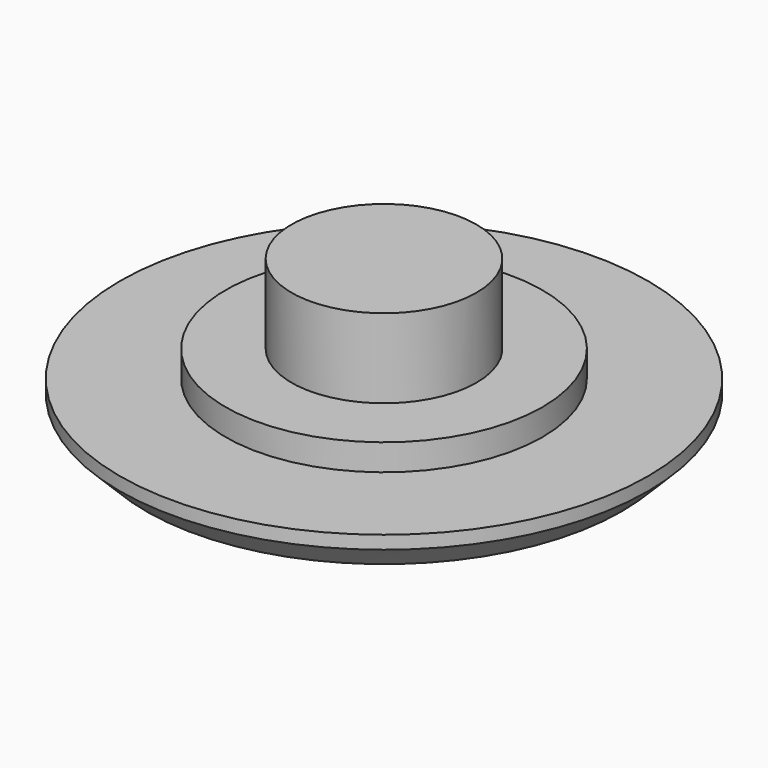
from build123d import *

# Parameters (mm, degrees)
F0_R     = 10
F0_R_2   = 6
F1_DEPTH = 1.5
F0_R_3   = 3.5
F2_DEPTH = 2.5
F3_DEPTH = 5.5
F4_SIZE  = 1


with BuildPart() as f1:
    # F0 (on Top) → F1 (new body)
    with BuildSketch(Plane.XY):
        Circle(F0_R)
        Circle(F0_R_2, mode=Mode.SUBTRACT)
    extrude(amount=F1_DEPTH)

    # F0 (on Top) → F2 (join)
    with BuildSketch(Plane.XY):
        Circle(F0_R_2)
        Circle(F0_R_3, mode=Mode.SUBTRACT)
    extrude(amount=F2_DEPTH)

    # F0 (on Top) → F3 (join)
    with BuildSketch(Plane.XY):
        Circle(F0_R_3)
    extrude(amount=F3_DEPTH)

    # F4
    f4_edges = [f1.edges().sort_by_distance(p)[0] for p in [
        (-10, 0, 0),
    ]]
    chamfer(f4_edges, length=F4_SIZE)


solid = f1.part
